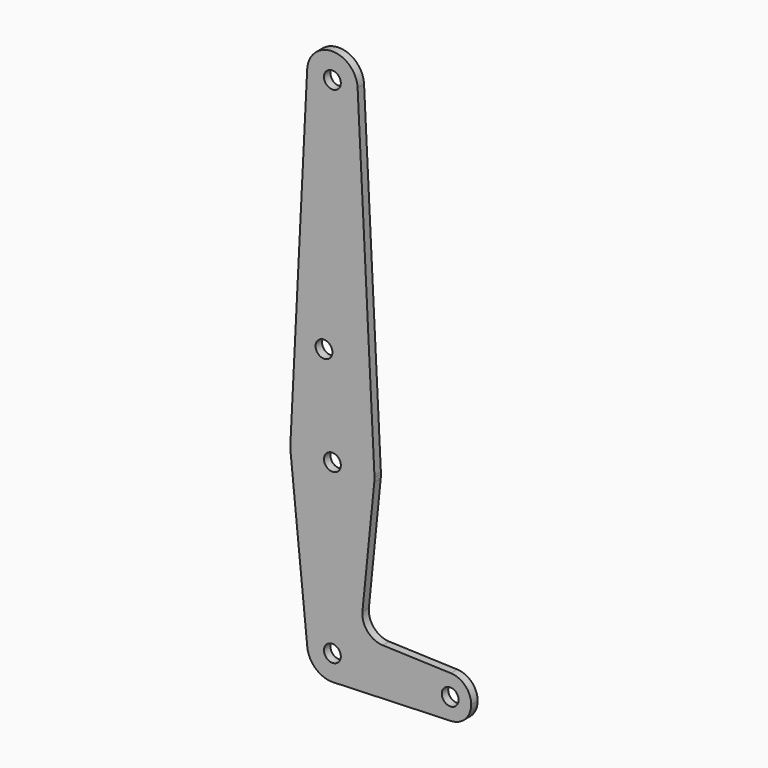
from build123d import *

# Parameters (mm, degrees)
F0_R     = 3.175
F1_DEPTH = 3.048


with BuildPart() as f1:
    # F0 (on Front) → F1 (new body)
    with BuildSketch(Plane.XZ):
        with BuildLine():
            ThreePointArc((9.513086, 190.97625), (0, 200.025), (-9.513086, 190.97625))
            ThreePointArc((-9.513086, 190.97625), (-0.238199, 180.977979), (9.525, 190.5))
            ThreePointArc((9.525, 190.5), (9.522021, 190.738199), (9.513086, 190.97625))
        make_face()
        with Locations((0, 190.5)):
            Circle(F0_R, mode=Mode.SUBTRACT)
        with BuildLine():
            Line((-9.513086, 190.97625), (-15.855144, 64.29375))
            ThreePointArc((-15.855144, 64.29375), (0, 79.375), (15.855144, 64.29375))
            Line((15.855144, 64.29375), (9.513086, 190.97625))
            ThreePointArc((9.513086, 190.97625), (9.522021, 190.738199), (9.525, 190.5))
            ThreePointArc((9.525, 190.5), (-0.238199, 180.977979), (-9.513086, 190.97625))
        make_face()
        with Locations((-3.175, 100.0252)):
            Circle(F0_R, mode=Mode.SUBTRACT)
        with BuildLine():
            ThreePointArc((-15.855144, 64.29375), (-15.87001, 63.102003), (-15.795426, 61.9125))
            ThreePointArc((-15.795426, 61.9125), (0, 47.625), (15.795426, 61.9125))
            ThreePointArc((15.795426, 61.9125), (15.855094, 62.705253), (15.875, 63.5))
            ThreePointArc((15.875, 63.5), (15.870035, 63.896999), (15.855144, 64.29375))
            ThreePointArc((15.855144, 64.29375), (0, 79.375), (-15.855144, 64.29375))
        make_face()
        with Locations((0, 63.5)):
            Circle(F0_R, mode=Mode.SUBTRACT)
        with BuildLine():
            ThreePointArc((-9.477255, -0.9525), (-0.476848, 9.513056), (9.525, 0))
            ThreePointArc((9.525, 0), (6.854408, -6.613827), (0.340179, -9.518923))
            Line((0.340179, -9.518923), (44.733482, -7.932436))
            ThreePointArc((44.733482, -7.932436), (36.5125, 0), (44.733482, 7.932436))
            Line((44.733482, 7.932436), (18.9676, 8.853234))
            ThreePointArc((18.9676, 8.853234), (13.2612, 11.571359), (11.341187, 17.593382))
            Line((11.341187, 17.593382), (15.795426, 61.9125))
            ThreePointArc((15.795426, 61.9125), (0, 47.625), (-15.795426, 61.9125))
            Line((-15.795426, 61.9125), (-9.477255, -0.9525))
        make_face()
        with BuildLine():
            ThreePointArc((0.340179, -9.518923), (6.854408, -6.613827), (9.525, 0))
            ThreePointArc((9.525, 0), (-0.476848, 9.513056), (-9.477255, -0.9525))
            ThreePointArc((-9.477255, -0.9525), (-6.262383, -7.17692), (0.340179, -9.518923))
        make_face()
        Circle(F0_R, mode=Mode.SUBTRACT)
        with BuildLine():
            ThreePointArc((44.733482, 7.932436), (36.5125, 0), (44.733482, -7.932436))
            ThreePointArc((44.733482, -7.932436), (50.162007, -5.511523), (52.3875, 0))
            ThreePointArc((52.3875, 0), (50.162007, 5.511523), (44.733482, 7.932436))
        make_face()
        with Locations((44.45, 0)):
            Circle(F0_R, mode=Mode.SUBTRACT)
    extrude(amount=F1_DEPTH)


solid = f1.part
